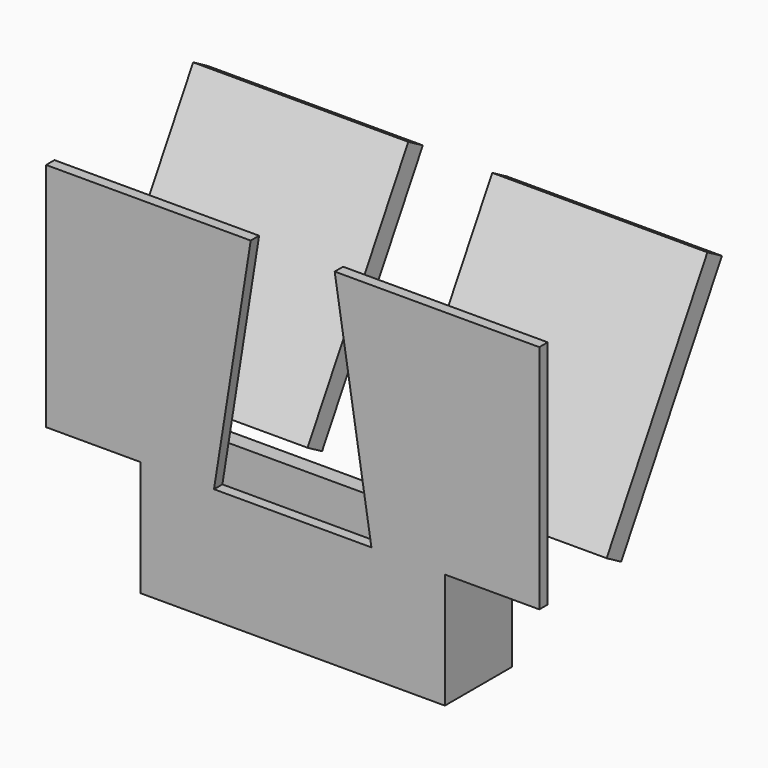
from build123d import *

# Parameters (mm, degrees)
F0_W      = 330.2
F0_H      = 101.6
F1_DEPTH  = 6.35
F2_W      = 101.6
F2_H      = 139.7
F3_DEPTH  = 19.05
F6_W      = 330.2
F6_H      = 12.7
F7_DEPTH  = 127
F9_DEPTH  = 12.7
F10_W     = 330.2
F10_H     = 19.05
F11_DEPTH = 127
F12_W     = 260.35
F12_H     = 304.8
F13_DEPTH = 25.4
F14_ANGLE = -30


with BuildPart() as f1:
    # F0 (on Top) → F1 (new body, symmetric)
    with BuildSketch(Plane.XY):
        Rectangle(F0_W, F0_H)
    extrude(amount=F1_DEPTH, both=True)

    # F2 (on face) → F3 (join)
    with BuildSketch(Plane(origin=(-165.1, 0, 0), x_dir=(0, -1, 0), z_dir=(-1, 0, 0))):
        with Locations((0, 63.5)):
            Rectangle(F2_W, F2_H)
    extrude(amount=F3_DEPTH)

    # F4: F1 across plane


with BuildPart() as f1_1:
    add(f1.part)
    add(f1.part.mirror(Plane.YZ))

    # F6 (on face) → F7 (join)
    with BuildSketch(Plane.XY.offset(6.35)):
        with Locations((0, -44.45)):
            Rectangle(F6_W, F6_H)
    extrude(amount=F7_DEPTH)

    # F8 (on face) → F9 (join)
    with BuildSketch(Plane.XZ.offset(50.8)):
        Polygon((-298.45, 412.75), (-298.45, 133.35), (-95.25, 133.35), (-50.8, 412.75), (-95.25, 412.75), align=None)
        Polygon((50.8, 412.75), (95.25, 133.35), (298.45, 133.35), (298.45, 412.75), (95.25, 412.75), align=None)
    extrude(amount=-F9_DEPTH)

    # F10 (on face) → F11 (join)
    with BuildSketch(Plane.XY.offset(6.35)):
        with Locations((0, 41.275)):
            Rectangle(F10_W, F10_H)
    extrude(amount=F11_DEPTH)


with BuildPart() as f13:
    # F12 (on face) → F13 (new body)
    with BuildSketch(Plane(origin=(0, 50.8, 0), x_dir=(-1, 0, 0), z_dir=(0, 1, 0))):
        with Locations((-180.975, 298.45)):
            Rectangle(F12_W, F12_H)
    extrude(amount=-F13_DEPTH)


with BuildPart() as f13b:
    # F12 (on face) → F13, piece 2 (new body)
    with BuildSketch(Plane(origin=(0, 50.8, 0), x_dir=(-1, 0, 0), z_dir=(0, 1, 0))):
        with Locations((180.975, 298.45)):
            Rectangle(F12_W, F12_H)
    extrude(amount=-F13_DEPTH)


with BuildPart() as f13_1:
    # F14: moved
    add(f13.part.rotate(Axis((-174.625, 50.8, 133.35), (1, 0, 0)), F14_ANGLE))


with BuildPart() as f13b_1:
    # F14: moved
    add(f13b.part.rotate(Axis((-174.625, 50.8, 133.35), (1, 0, 0)), F14_ANGLE))


solid = Compound([f1_1.part, f13_1.part, f13b_1.part])
